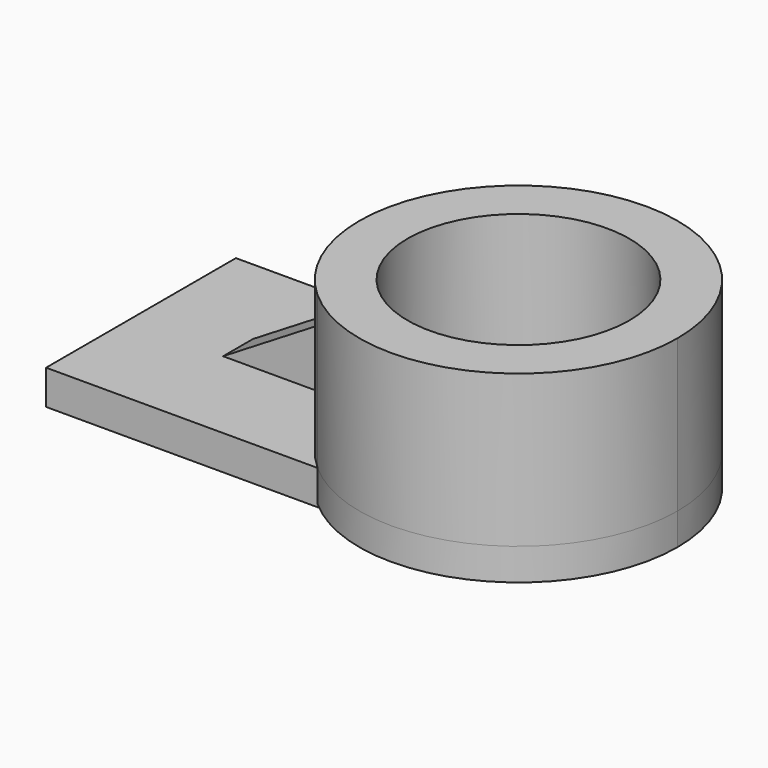
from build123d import *

# Parameters (mm, degrees)
F0_W     = 150.9791910648
F0_H     = 87.1725007892
F1_DEPTH = 12.7
F3_DEPTH = 55.88
F4_DEPTH = 452.12
F5_DEPTH = 11.684
F7_DEPTH = 6.858


with BuildPart() as f1:
    # F0 (on Top) → F1 (new body)
    with BuildSketch(Plane.XY):
        Rectangle(F0_W, F0_H)
    extrude(amount=F1_DEPTH)

    # F2 (on face) → F3 (join)
    with BuildSketch(Plane.XY.offset(12.7)):
        with BuildLine():
            ThreePointArc((24.2620809747, 43.5862503946), (9.8493824569, 23.8775509436), (4.748277327, 0))
            Line((4.748277327, 0), (22.4522494397, 0))
            ThreePointArc((22.4522494397, 0), (39.123376192, 32.8650796795), (75.4895955324, 38.8264570725))
            Line((75.4895955324, 38.8264570725), (75.4895955324, 43.5862503946))
            Line((75.4895955324, 43.5862503946), (24.2620809747, 43.5862503946))
        make_face()
        with BuildLine():
            Line((22.4522494397, 0), (4.748277327, 0))
            ThreePointArc((4.748277327, 0), (9.8493824569, -23.8775509436), (24.2620809747, -43.5862503946))
            Line((24.2620809747, -43.5862503946), (75.4895955324, -43.5862503946))
            Line((75.4895955324, -43.5862503946), (75.4895955324, -38.8264570725))
            ThreePointArc((75.4895955324, -38.8264570725), (39.123376192, -32.8650796795), (22.4522494397, 0))
        make_face()
        with BuildLine():
            ThreePointArc((121.61681805, 0), (87.0600986321, 53.3331652316), (24.2620809747, 43.5862503946))
            Line((24.2620809747, 43.5862503946), (75.4895955324, 43.5862503946))
            Line((75.4895955324, 43.5862503946), (75.4895955324, 38.8264570725))
            ThreePointArc((75.4895955324, 38.8264570725), (96.047627368, 24.0591714965), (103.9128459373, 0))
            ThreePointArc((103.9128459373, 0), (96.047627368, -24.0591714965), (75.4895955324, -38.8264570725))
            Line((75.4895955324, -38.8264570725), (75.4895955324, -43.5862503946))
            Line((75.4895955324, -43.5862503946), (24.2620809747, -43.5862503946))
            ThreePointArc((24.2620809747, -43.5862503946), (87.0600986321, -53.3331652316), (121.61681805, 0))
        make_face()
    extrude(amount=F3_DEPTH)

    # F4 (cut): a face of the model
    f4_faces = [f1.faces().sort_by_distance(p)[0] for p in [
        (52.3222775946, 0, 12.7),
    ]]
    extrude(f4_faces, amount=-F4_DEPTH, mode=Mode.SUBTRACT)

    # F5 (add): a face of the model
    f5_faces = [f1.faces().sort_by_distance(p)[0] for p in [
        (49.8758382535, -45.1073092574, 12.7),
    ]]
    extrude(f5_faces, amount=F5_DEPTH)


with BuildPart() as f7:
    # F6 (on Front) → F7 (new body, symmetric)
    with BuildSketch(Plane.XZ):
        Polygon((4.6213758178, 13.0628570914), (4.6213758178, 40.1934087276), (-39.8425795138, 13.0628570914), align=None)
    extrude(amount=F7_DEPTH, both=True)


solid = Compound([f1.part, f7.part])
